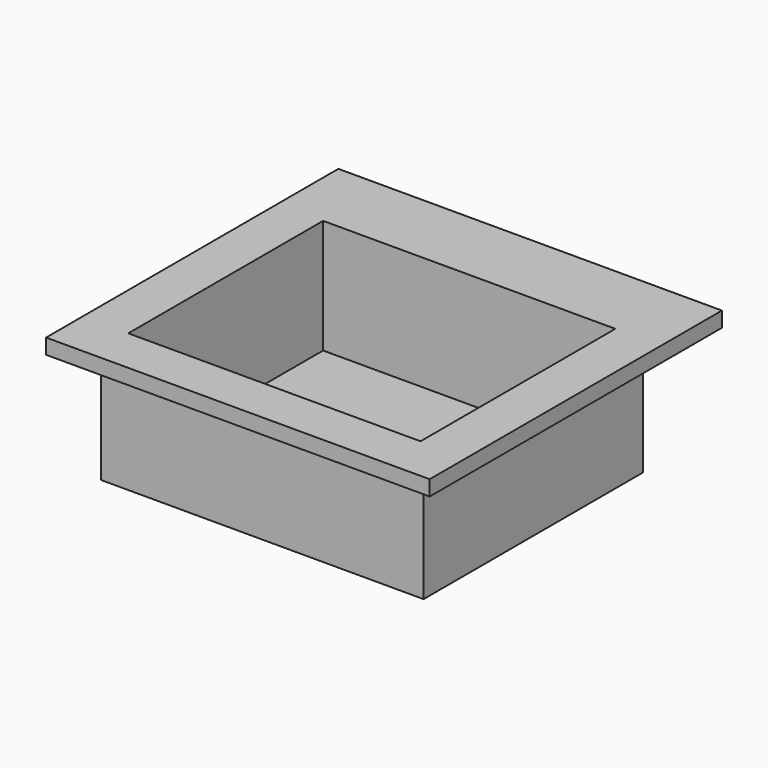
from build123d import *

# Parameters (mm, degrees)
F0_W     = 21.2
F0_H     = 18
F1_DEPTH = 8.4
F2_W     = 19.2
F2_H     = 16
F3_DEPTH = 7.5
F4_W     = 25.2
F4_H     = 24
F4_W_2   = 21.2
F4_H_2   = 18
F5_DEPTH = 1
F6_R     = 1.2
F7_DEPTH = 0.901


with BuildPart() as f1:
    # F0 (on Top) → F1 (new body)
    with BuildSketch(Plane.XY):
        with Locations((10.6, 9)):
            Rectangle(F0_W, F0_H)
    extrude(amount=F1_DEPTH)

    # F2 (on face) → F3 (cut)
    with BuildSketch(Plane.XY.offset(8.4)):
        with Locations((10.6, 9)):
            Rectangle(F2_W, F2_H)
    extrude(amount=-F3_DEPTH, mode=Mode.SUBTRACT)

    # F4 (on face) → F5 (join)
    with BuildSketch(Plane.XY.offset(8.4)):
        with Locations((10.6, 10)):
            Rectangle(F4_W, F4_H)
        with Locations((10.6, 9)):
            Rectangle(F4_W_2, F4_H_2, mode=Mode.SUBTRACT)
    extrude(amount=-F5_DEPTH)

    # F6 (on face) → F7 (cut, through all)
    with BuildSketch(Plane.XY.offset(0.9)):
        with Locations((10.6, 8)):
            Circle(F6_R)
    extrude(amount=-F7_DEPTH, mode=Mode.SUBTRACT)


solid = f1.part
